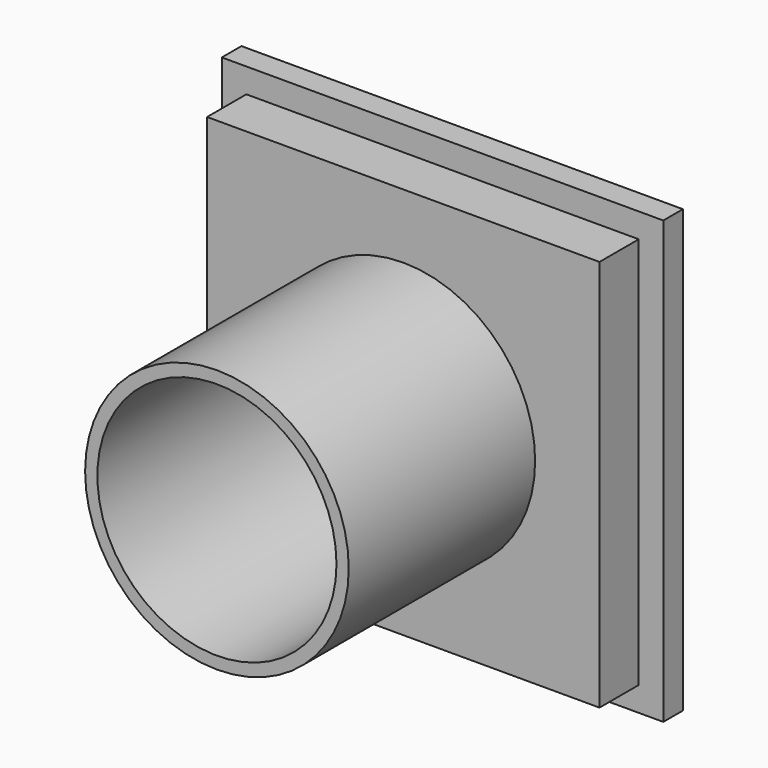
from build123d import *

# Parameters (mm, degrees)
SKETCH016_W      = 32
SKETCH016_H      = 32
SKETCH016_R      = 9.75
EXTRUDE015_DEPTH = 6
SKETCH017_R      = 10.75
SKETCH017_R_2    = 9.75
EXTRUDE016_DEPTH = 25
SKETCH014_W      = 36
SKETCH014_H      = 36
SKETCH014_W_2    = 28
SKETCH014_H_2    = 28
EXTRUDE013_DEPTH = 2


with BuildPart() as extrude015:
    # Sketch016 → Extrude015 (new body)
    with BuildSketch(Plane.XZ):
        with Locations((-18, -18)):
            Rectangle(SKETCH016_W, SKETCH016_H)
        with Locations((-18, -18)):
            Circle(SKETCH016_R, mode=Mode.SUBTRACT)
    extrude(amount=EXTRUDE015_DEPTH)


with BuildPart() as extrude015_1:
    # Extrude015 placement: moved
    add(extrude015.part.moved(Location((0, -4, 0))))


with BuildPart() as extrude016:
    # Sketch017 → Extrude016 (new body)
    with BuildSketch(Plane.XZ):
        with Locations((-18, -18)):
            Circle(SKETCH017_R)
        with Locations((-18, -18)):
            Circle(SKETCH017_R_2, mode=Mode.SUBTRACT)
    extrude(amount=EXTRUDE016_DEPTH)


with BuildPart() as extrude016_1:
    # Extrude016 placement: moved
    add(extrude016.part.moved(Location((0, -4, 0))))


with BuildPart() as fusion002:
    # Sketch014 → Extrude013 (new body)
    with BuildSketch(Plane.XZ):
        with Locations((-18, -18)):
            Rectangle(SKETCH014_W, SKETCH014_H)
        with Locations((-18, -18)):
            Rectangle(SKETCH014_W_2, SKETCH014_H_2, mode=Mode.SUBTRACT)
    extrude(amount=EXTRUDE013_DEPTH)


with BuildPart() as fusion002_1:
    # Extrude013 placement: moved
    add(fusion002.part.moved(Location((0, -4, 0))))

    # Fusion002: union Extrude015, Extrude016
    add(extrude015_1.part)
    add(extrude016_1.part)


solid = fusion002_1.part
